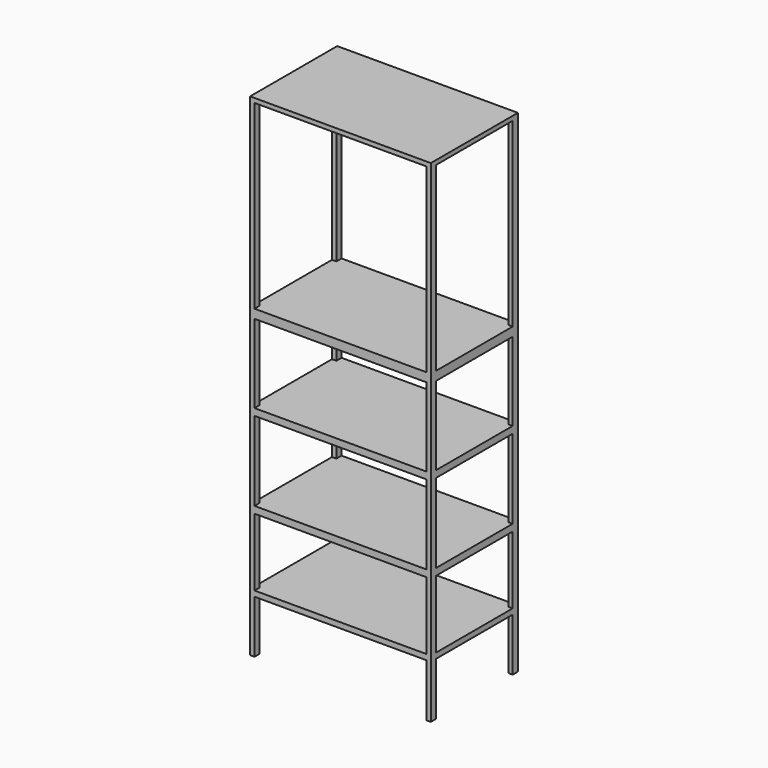
from build123d import *

# Parameters (mm, degrees)
F0_W     = 8.3
F0_H     = 5
F1_DEPTH = 22.6
F2_W     = 7.9
F2_H     = 8.322741
F2_H_2   = 3.610624
F2_H_3   = 3.642021
F2_H_4   = 3.108276
F2_H_5   = 2.429072
F3_DEPTH = 25
F4_W     = 4.4
F4_H     = 8.322741
F4_H_2   = 3.610624
F4_H_3   = 3.642021
F4_H_4   = 3.108276
F4_H_5   = 2.429072
F5_DEPTH = 25


with BuildPart() as f1:
    # F0 (on Top) → F1 (new body)
    with BuildSketch(Plane.XY):
        with Locations((4.15, -2.5)):
            Rectangle(F0_W, F0_H)
    extrude(amount=F1_DEPTH)

    # F2 (on face) → F3 (cut)
    with BuildSketch(Plane(origin=(0, 0, 0), x_dir=(-1, 0, 0), z_dir=(0, 1, 0))):
        with Locations((-4.15, 18.238629)):
            Rectangle(F2_W, F2_H)
        with Locations((-4.15, 11.86379)):
            Rectangle(F2_W, F2_H_2)
        with Locations((-4.15, 7.9235)):
            Rectangle(F2_W, F2_H_3)
        with Locations((-4.15, 4.234384)):
            Rectangle(F2_W, F2_H_4)
        with Locations((-4.15, 1.214536)):
            Rectangle(F2_W, F2_H_5)
    extrude(amount=-F3_DEPTH, mode=Mode.SUBTRACT)

    # F4 (on Right) → F5 (cut)
    with BuildSketch(Plane.YZ):
        with Locations((-2.5, 18.238629)):
            Rectangle(F4_W, F4_H)
        with Locations((-2.5, 11.86379)):
            Rectangle(F4_W, F4_H_2)
        with Locations((-2.5, 7.9235)):
            Rectangle(F4_W, F4_H_3)
        with Locations((-2.5, 4.234384)):
            Rectangle(F4_W, F4_H_4)
        with Locations((-2.5, 1.214536)):
            Rectangle(F4_W, F4_H_5)
    extrude(amount=F5_DEPTH, mode=Mode.SUBTRACT)


solid = f1.part
